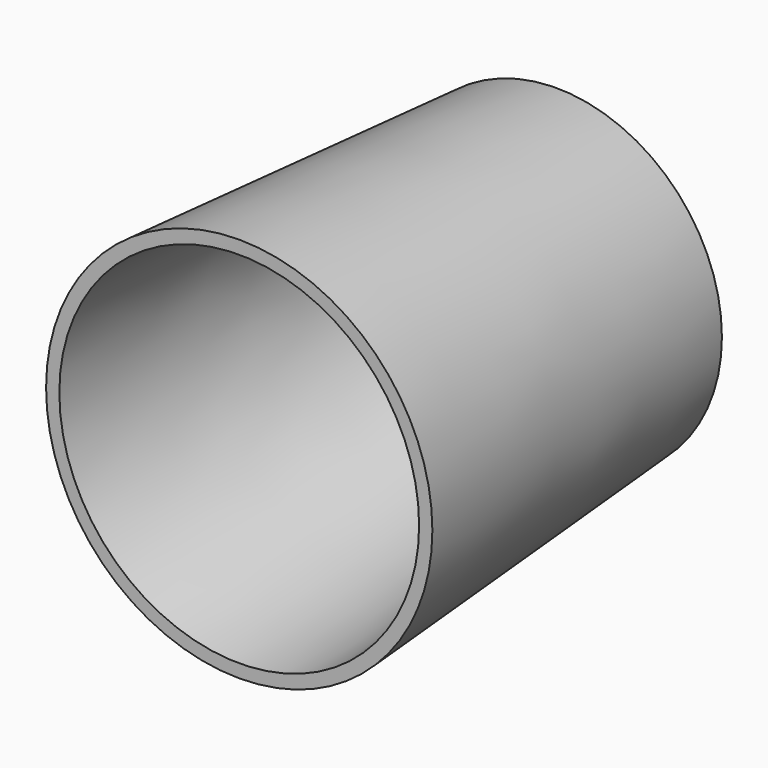
from build123d import *

# Parameters (mm, degrees)
F0_R     = 31.7794105997
F2_DEPTH = 76.2
F2_TAPER = -4
F3_T     = -2.54


with BuildPart() as f2:
    # F0 (on Front) → F2 (new body)
    with BuildSketch(Plane.XZ):
        Circle(F0_R)
    extrude(amount=F2_DEPTH, taper=F2_TAPER)

    # F3
    f3_openings = [f2.faces().sort_by_distance(p)[0] for p in [
        (0, -76.2, 0),
    ]]
    offset(amount=F3_T, openings=f3_openings, kind=Kind.INTERSECTION)


solid = f2.part
